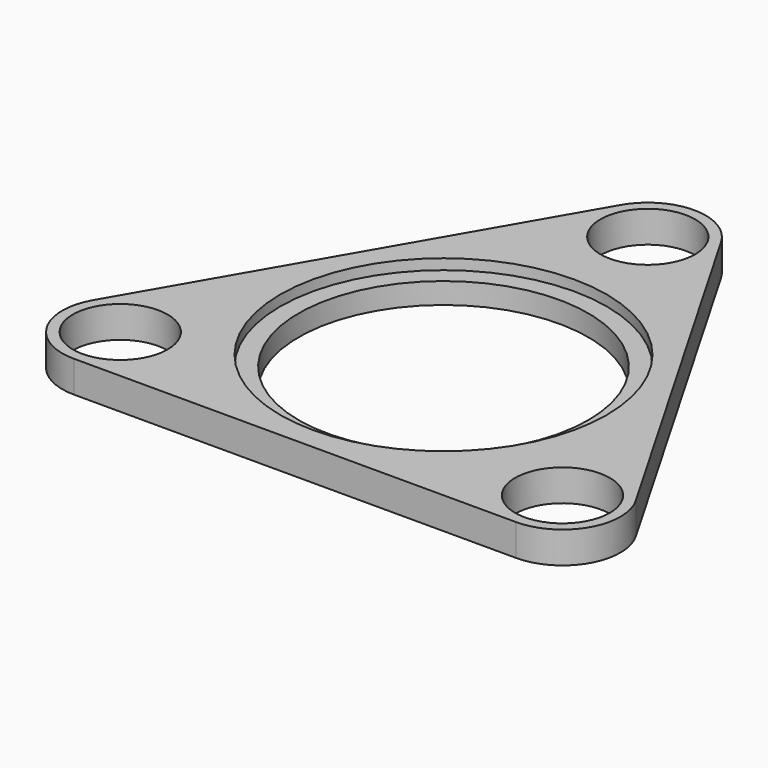
from build123d import *

# Parameters (mm, degrees)
PAD001_DEPTH    = 6
CLONE2D004_R    = 9
CLONE2D004_R_2  = 4
POCKET004_DEPTH = 6.001
SKETCH009_R     = 27.5
POCKET005_DEPTH = 6.001
SKETCH010_R     = 31
POCKET006_DEPTH = 2


with BuildPart() as part:
    # Clone2D003 → Pad001 (new body)
    with BuildSketch(Plane.XY):
        with BuildLine():
            ThreePointArc((9.526279, 54), (0, 59.5), (-9.526279, 54))
            Line((-9.526279, 54), (-51.528512, -18.75))
            ThreePointArc((-51.528512, -18.75), (-51.528512, -29.75), (-42.002232, -35.25))
            Line((-42.002232, -35.25), (42.002232, -35.25))
            ThreePointArc((42.002232, -35.25), (51.528512, -29.75), (51.528512, -18.75))
            Line((51.528512, -18.75), (9.526279, 54))
        make_face()
    extrude(amount=-PAD001_DEPTH)

    # Clone2D004 → Pocket004 (cut, through all)
    with BuildSketch(Plane.XY):
        with Locations((0, 48.5)):
            Circle(CLONE2D004_R)
        with Locations((-42.002232, -24.25)):
            Circle(CLONE2D004_R)
        with Locations((42.002232, -24.25)):
            Circle(CLONE2D004_R)
        Circle(CLONE2D004_R_2)
    extrude(amount=-POCKET004_DEPTH, mode=Mode.SUBTRACT)

    # Sketch009 → Pocket005 (cut, through all)
    with BuildSketch(Plane.XY):
        Circle(SKETCH009_R)
    extrude(amount=-POCKET005_DEPTH, mode=Mode.SUBTRACT)

    # Sketch010 → Pocket006 (cut)
    with BuildSketch(Plane.XY):
        Circle(SKETCH010_R)
    extrude(amount=-POCKET006_DEPTH, mode=Mode.SUBTRACT)


solid = part.part
